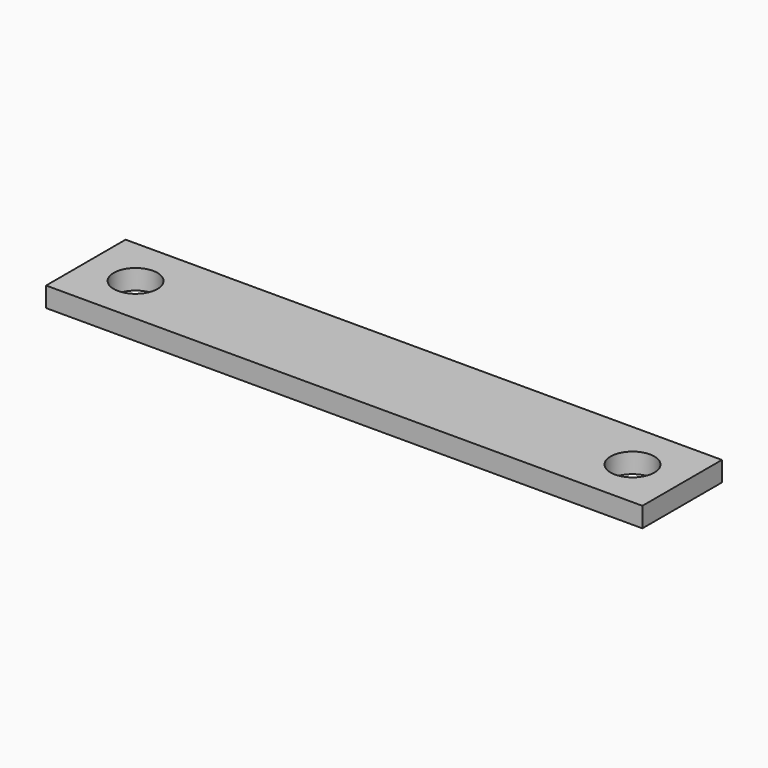
from build123d import *

# Parameters (mm, degrees)
SKETCH_W  = 300
SKETCH_H  = 50
SKETCH_R  = 11
PAD_DEPTH = 10


with BuildPart() as part:
    # Sketch → Pad (new body)
    with BuildSketch(Plane.XY):
        with Locations((125, -0.025626)):
            Rectangle(SKETCH_W, SKETCH_H)
        Circle(SKETCH_R, mode=Mode.SUBTRACT)
        with Locations((250, 0)):
            Circle(SKETCH_R, mode=Mode.SUBTRACT)
    extrude(amount=PAD_DEPTH)


solid = part.part
